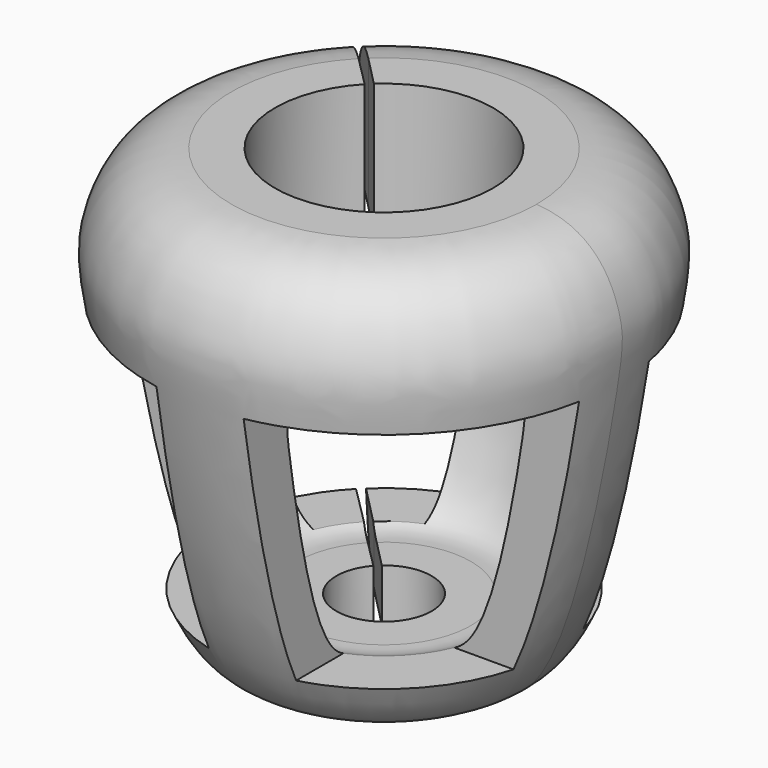
from build123d import *

# Parameters (mm, degrees)
F0_W     = 10
F0_H     = 30
F0_W_2   = 9
F0_H_2   = 12
F3_W     = 62.1188855951
F3_H     = 59
F3_W_2   = 52.6924419476
F4_DEPTH = 45
F6_W     = 63.4906998234
F6_H     = 59
F6_W_2   = 68.5072937513
F7_DEPTH = 45
F9_DEPTH = 120


with BuildPart() as f1:
    # F0 (on Front) → F1 (revolve)
    with BuildSketch(Plane.XZ):
        with Locations((30, 87)):
            Rectangle(F0_W, F0_H)
        with BuildLine():
            Line((19.9386831969, 12), (19.9386831969, 0))
            add(Edge.make_bspline(
                [(35, 102), (47.6735286305, 101.2700165172), (55.4430753355, 86.0702108391), (54.359910997, 73.407771415), (41.0915305584, 0.0060739193), (25.2524229719, 0.0489723681), (19.9386831969, 0)],
                knots=[0, 0, 0, 0, 0.2324476842, 0.4161538018, 0.8090142096, 1, 1, 1, 1], degree=3))
            Line((35, 102), (35, 72))
            add(Edge.make_bspline(
                [(35, 72), (42.7334520143, 71.8141088689), (40.5916873212, 57.5235732931), (38.0234226851, 41.3783597405), (31.3877673805, 13.9940014824), (24.1153191486, 11.7434822629), (19.9386831969, 12)],
                knots=[0, 0, 0, 0, 0.2248175314, 0.4969198673, 0.8064363196, 1, 1, 1, 1], degree=3))
        make_face()
        with Locations((15.4386831969, 6)):
            Rectangle(F0_W_2, F0_H_2)
    revolve(axis=Axis((0, 0, 61.0871464014), (0, 0, 1)))

    # F3 (on offset) → F4 (cut)
    with BuildSketch(Plane.XZ.offset(55)):
        with Locations((-41.0594427976, 42.5)):
            Rectangle(F3_W, F3_H)
        with Locations((36.3462209738, 42.5)):
            Rectangle(F3_W_2, F3_H)
    extrude(amount=-F4_DEPTH, mode=Mode.SUBTRACT)

    # F6 (on offset) → F7 (cut)
    with BuildSketch(Plane.XZ.offset(-55)):
        with Locations((41.7453499117, 42.5)):
            Rectangle(F6_W, F6_H)
        with Locations((-44.2536468757, 42.5)):
            Rectangle(F6_W_2, F6_H)
    extrude(amount=F7_DEPTH, mode=Mode.SUBTRACT)

    # F8 (on face) → F9 (cut)
    with BuildSketch(Plane.XY.offset(102)):
        Polygon((-1, 0), (0, 0), (0, 1), align=None)
        with BuildLine():
            ThreePointArc((-25.2436860633, 24.2436860633), (-24.626595202, 24.8702796276), (-23.9939560006, 25.4811709982))
            Line((-23.9939560006, 25.4811709982), (-40.7976849582, 42.626112083))
            Line((-40.7976849582, 42.626112083), (-42.2118985206, 41.2118985206))
            Line((-42.2118985206, 41.2118985206), (-25.2436860633, 24.2436860633))
        make_face()
        with BuildLine():
            ThreePointArc((-18.1705970471, 17.1705970471), (-17.5911507993, 17.763766874), (-16.9923512348, 18.3373934765))
            Line((-16.9923512348, 18.3373934765), (-23.9939560006, 25.4811709982))
            ThreePointArc((-23.9939560006, 25.4811709982), (-24.626595202, 24.8702796276), (-25.2436860633, 24.2436860633))
            Line((-25.2436860633, 24.2436860633), (-18.1705970471, 17.1705970471))
        make_face()
        with BuildLine():
            Line((-1, 0), (0, 1))
            Line((0, 1), (-16.9923512348, 18.3373934765))
            ThreePointArc((-16.9923512348, 18.3373934765), (-17.5911507993, 17.763766874), (-18.1705970471, 17.1705970471))
            Line((-18.1705970471, 17.1705970471), (-1, 0))
        make_face()
    extrude(amount=-F9_DEPTH, mode=Mode.SUBTRACT)


solid = f1.part
